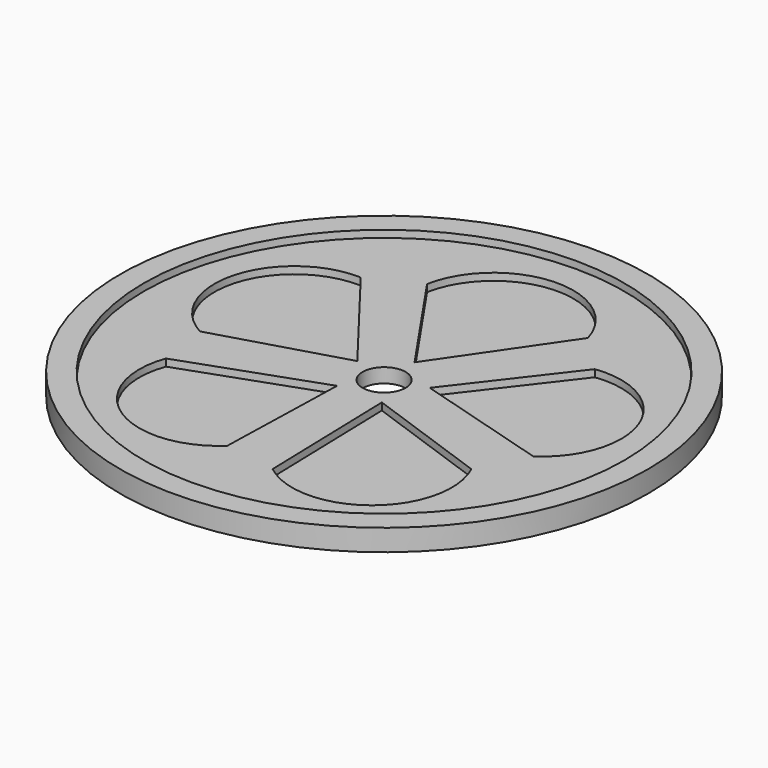
from build123d import *

# Parameters (mm, degrees)
F0_R     = 36.775491
F0_R_2   = 33.454841
F0_R_3   = 3
F1_DEPTH = 2
F2_DEPTH = 3
F3_DEPTH = 1


with BuildPart() as f1:
    # F0 (on Top) → F1 (new body)
    with BuildSketch(Plane.XY):
        with Locations((37.5, 37.5)):
            Circle(F0_R)
        with Locations((37.5, 37.5)):
            Circle(F0_R_2, mode=Mode.SUBTRACT)
        with Locations((37.5, 37.5)):
            Circle(F0_R_2)
        with BuildLine():
            ThreePointArc((33.878023, 14.721462), (20.150811, 13.532255), (15.808449, 26.60874))
            Line((15.808449, 26.60874), (34.38191, 33.208317))
            Line((34.38191, 33.208317), (33.878023, 14.721462))
        make_face(mode=Mode.SUBTRACT)
        with BuildLine():
            Line((41.155146, 13.504525), (40.61809, 33.208317))
            Line((40.61809, 33.208317), (58.044424, 27.01634))
            ThreePointArc((58.044424, 27.01634), (54.933486, 13.593501), (41.155146, 13.504525))
        make_face(mode=Mode.SUBTRACT)
        with BuildLine():
            ThreePointArc((14.717071, 33.905749), (9.344126, 46.593618), (20.438738, 54.764306))
            Line((20.438738, 54.764306), (32.454824, 39.139277))
            Line((32.454824, 39.139277), (14.717071, 33.905749))
        make_face(mode=Mode.SUBTRACT)
        with Locations((37.5, 37.5)):
            Circle(F0_R_3, mode=Mode.SUBTRACT)
        with BuildLine():
            Line((61.450556, 33.561241), (42.545176, 39.139277))
            Line((42.545176, 39.139277), (53.819129, 53.79928))
            ThreePointArc((53.819129, 53.79928), (65.623675, 46.692716), (61.450556, 33.561241))
        make_face(mode=Mode.SUBTRACT)
        with BuildLine():
            Line((37.5, 42.804812), (27.041352, 58.057169))
            ThreePointArc((27.041352, 58.057169), (37.447901, 67.08791), (48.647111, 59.061188))
            Line((48.647111, 59.061188), (37.5, 42.804812))
        make_face(mode=Mode.SUBTRACT)
    extrude(amount=F1_DEPTH)

    # F0 (on Top) → F2 (join)
    with BuildSketch(Plane.XY):
        with Locations((37.5, 37.5)):
            Circle(F0_R)
        with Locations((37.5, 37.5)):
            Circle(F0_R_2, mode=Mode.SUBTRACT)
    extrude(amount=F2_DEPTH)

    # F0 (on Top) → F3 (join)
    with BuildSketch(Plane.XY):
        with BuildLine():
            Line((32.454824, 39.139277), (20.438738, 54.764306))
            ThreePointArc((20.438738, 54.764306), (9.344126, 46.593618), (14.717071, 33.905749))
            Line((14.717071, 33.905749), (32.454824, 39.139277))
        make_face()
        with BuildLine():
            ThreePointArc((48.647111, 59.061188), (37.447901, 67.08791), (27.041352, 58.057169))
            Line((27.041352, 58.057169), (37.5, 42.804812))
            Line((37.5, 42.804812), (48.647111, 59.061188))
        make_face()
        with BuildLine():
            Line((53.819129, 53.79928), (42.545176, 39.139277))
            Line((42.545176, 39.139277), (61.450556, 33.561241))
            ThreePointArc((61.450556, 33.561241), (65.623675, 46.692716), (53.819129, 53.79928))
        make_face()
        with BuildLine():
            Line((58.044424, 27.01634), (40.61809, 33.208317))
            Line((40.61809, 33.208317), (41.155146, 13.504525))
            ThreePointArc((41.155146, 13.504525), (54.933486, 13.593501), (58.044424, 27.01634))
        make_face()
        with BuildLine():
            Line((34.38191, 33.208317), (15.808449, 26.60874))
            ThreePointArc((15.808449, 26.60874), (20.150811, 13.532255), (33.878023, 14.721462))
            Line((33.878023, 14.721462), (34.38191, 33.208317))
        make_face()
    extrude(amount=F3_DEPTH)


solid = f1.part
